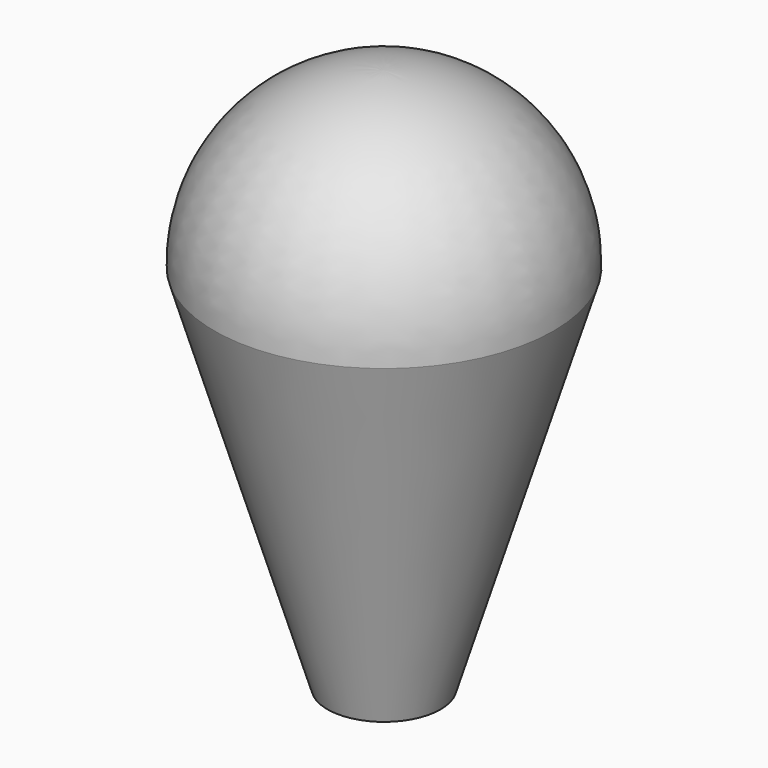
from build123d import *


with BuildPart() as part:
    # Sketch → Revolution (revolve)
    with BuildSketch(Plane.XZ):
        with BuildLine():
            Line((0, 0), (8, 0))
            Line((8, 0), (23.992852, 52.310262))
            ThreePointArc((23.992852, 52.310262), (17.176393, 69.658174), (0, 76.895968))
            Line((0, 0), (0, 76.895968))
        make_face()
    revolve(axis=Axis((0, 0, 0), (0, 0, 1)))


solid = part.part
